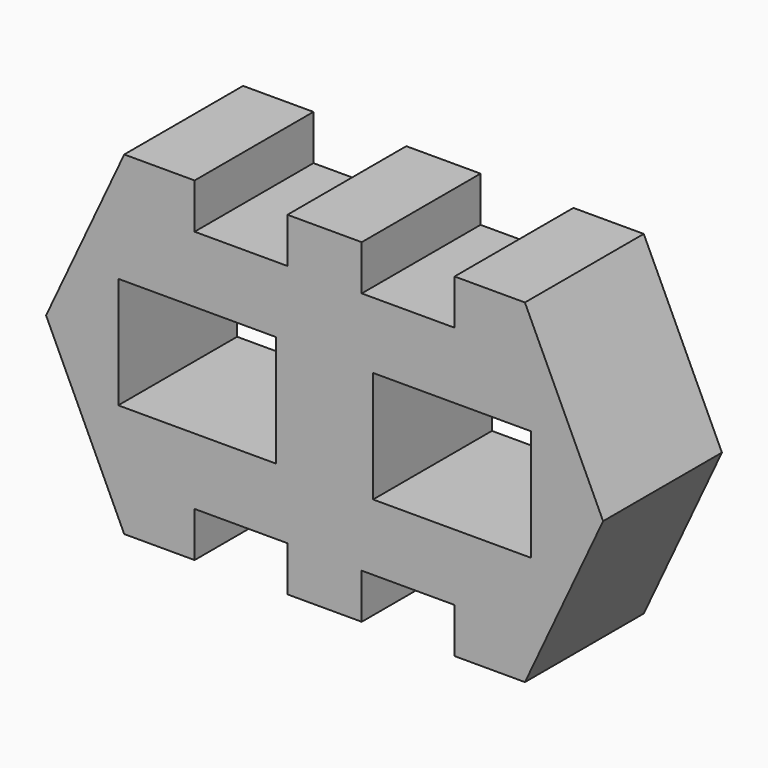
from build123d import *

# Parameters (mm, degrees)
F0_W     = 53.975
F0_H     = 38.1
F1_DEPTH = 50.8


with BuildPart() as f1:
    # F0 (on Front) → F1 (new body)
    with BuildSketch(Plane.XZ):
        Polygon((0, -114.3), (0, 0), (-12.7, 0), (-12.7, -15.428302), (-44.45, -15.428302), (-44.45, 0), (-68.516698, 0), (-95.25, -57.146634), (-68.531093, -114.3), (-44.45, -114.3), (-44.45, -98.894189), (-12.7, -98.894189), (-12.7, -114.3), align=None)
        with Locations((-43.579106, -57.15)):
            Rectangle(F0_W, F0_H, mode=Mode.SUBTRACT)
        Polygon((12.7, 0), (0, 0), (0, -114.3), (12.7, -114.3), (12.7, -98.894189), (44.45, -98.894189), (44.45, -114.3), (68.531093, -114.3), (95.25, -57.146634), (68.516698, 0), (44.45, 0), (44.45, -15.428302), (12.7, -15.428302), align=None)
        with Locations((43.579106, -57.15)):
            Rectangle(F0_W, F0_H, mode=Mode.SUBTRACT)
        Polygon((0, -114.3), (0, 0), (-12.7, 0), (-12.7, -15.428302), (-44.45, -15.428302), (-44.45, 0), (-68.516698, 0), (-95.25, -57.146634), (-68.531093, -114.3), (-44.45, -114.3), (-44.45, -98.894189), (-12.7, -98.894189), (-12.7, -114.3), align=None)
        with Locations((-43.579106, -57.15)):
            Rectangle(F0_W, F0_H, mode=Mode.SUBTRACT)
    extrude(amount=F1_DEPTH)


solid = f1.part
